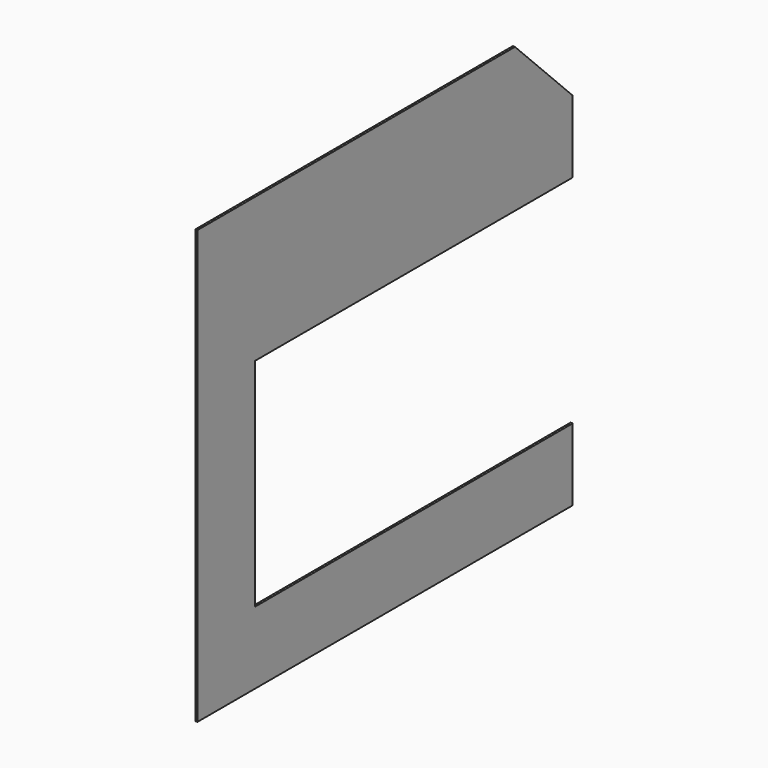
from build123d import *

# Parameters (mm, degrees)
F1_DEPTH = 3


with BuildPart() as f1:
    # F0 (on Right) → F1 (new body)
    with BuildSketch(Plane.YZ):
        Polygon((0, 600), (0, 0), (650, 0), (650, 100), (100, 100), (100, 400), (650, 400), (650, 500), (550, 600), align=None)
    extrude(amount=F1_DEPTH)


solid = f1.part
